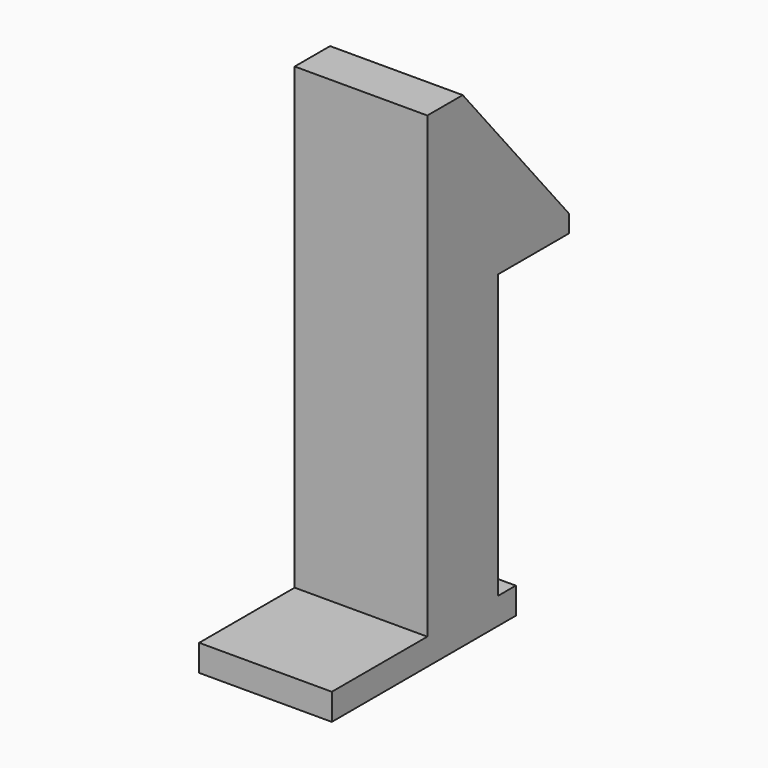
from build123d import *

# Parameters (mm, degrees)
SKETCH017_W       = 3
SKETCH017_H       = 2
PAD006_DEPTH      = 4.8
PAD006_DEPTH_BACK = 1.6
PAD007_DEPTH      = 3
SKETCH020_W       = 5.2
SKETCH020_H       = 0.6
PAD008_DEPTH      = 3


with BuildPart() as part:
    # Sketch017 → Pad006 (new body, two sides)
    with BuildSketch(Plane.XY) as pad006_sk:
        Rectangle(SKETCH017_W, SKETCH017_H)
    extrude(amount=PAD006_DEPTH)
    extrude(pad006_sk.sketch, amount=-PAD006_DEPTH_BACK)

    # Sketch018 (on Face4 of Pad006) → Pad007 (join)
    with BuildSketch(Plane(origin=(-1.5, 0, 0), x_dir=(0, -1, 0), z_dir=(-1, 0, 0))):
        Polygon((1, 4.8), (-3, 4.8), (-3, 5.2), (0, 8.775261), (1, 8.775261), align=None)
    extrude(amount=-PAD007_DEPTH)

    # Sketch020 (on Face9 of Pad007) → Pad008 (join)
    with BuildSketch(Plane.YZ.offset(1.5)):
        with Locations((-1.1, -1.9)):
            Rectangle(SKETCH020_W, SKETCH020_H)
    extrude(amount=-PAD008_DEPTH)


solid = part.part
